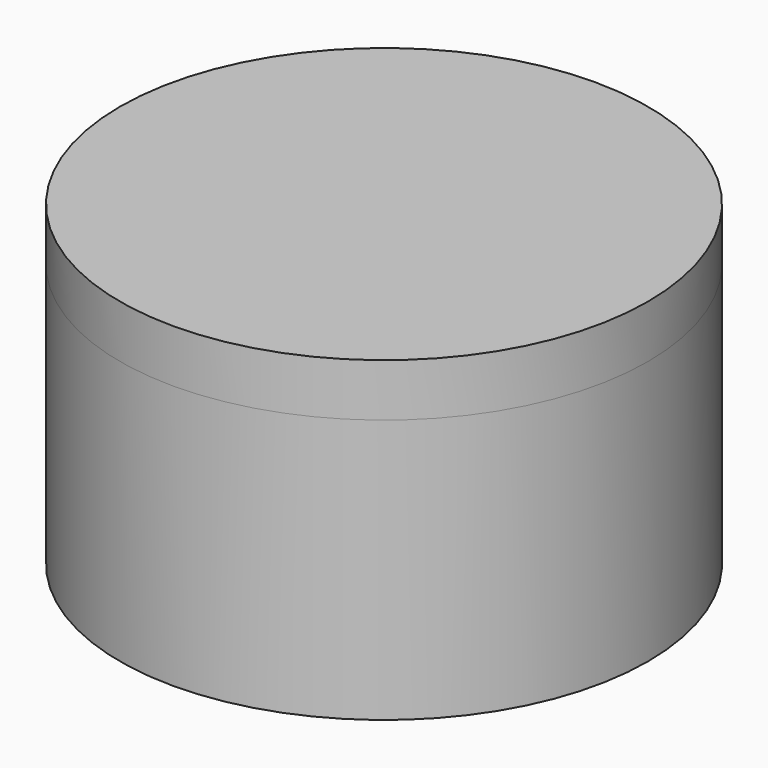
from build123d import *

# Parameters (mm, degrees)
F0_W = 8
F0_H = 10


with BuildPart() as f1:
    # F0 (on Front) → F1 (revolve)
    with BuildSketch(Plane.XZ):
        Polygon((0, 12), (0, 0), (2, 0), (2, 10), (10, 10), (10, 12), align=None)
    revolve(axis=Axis((0, 0, 6), (0, 0, -1)))


with BuildPart() as f2:
    # F0 (on Front) → F2 (revolve)
    with BuildSketch(Plane.XZ):
        with Locations((6, 5)):
            Rectangle(F0_W, F0_H)
    revolve(axis=Axis((0, 0, 6), (0, 0, -1)))


solid = Compound([f1.part, f2.part])
